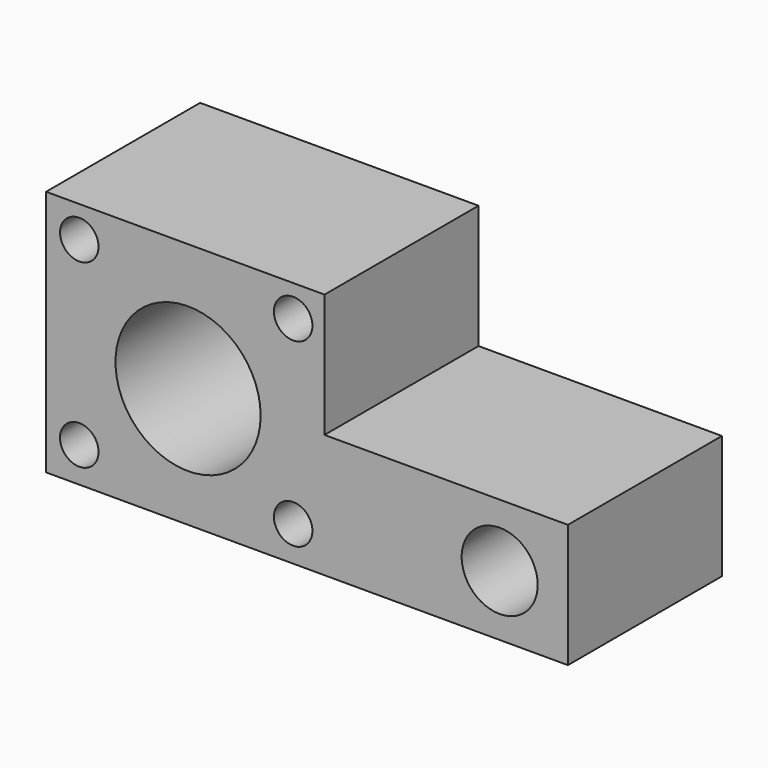
from build123d import *

# Parameters (mm, degrees)
F0_R     = 3
F0_R_2   = 11.309241
F0_R_3   = 5.923824
F1_DEPTH = 30


with BuildPart() as f1:
    # F0 (on Front) → F1 (new body)
    with BuildSketch(Plane.XZ):
        Polygon((-8.18941, 29.022118), (-51.57891, 29.022118), (-51.57891, -9.482474), (-8.18941, -9.482474), (29.740484, -9.482474), (29.740484, 9.769822), (-8.18941, 9.769822), align=None)
        with Locations((-46.406654, -4.022868)):
            Circle(F0_R, mode=Mode.SUBTRACT)
        with Locations((-13.074319, -4.022868)):
            Circle(F0_R, mode=Mode.SUBTRACT)
        with Locations((-29.453138, 9.195126)):
            Circle(F0_R_2, mode=Mode.SUBTRACT)
        with Locations((19.108622, 0)):
            Circle(F0_R_3, mode=Mode.SUBTRACT)
        with Locations((-46.406654, 24.137207)):
            Circle(F0_R, mode=Mode.SUBTRACT)
        with Locations((-13.074319, 24.137207)):
            Circle(F0_R, mode=Mode.SUBTRACT)
    extrude(amount=F1_DEPTH)


solid = f1.part
